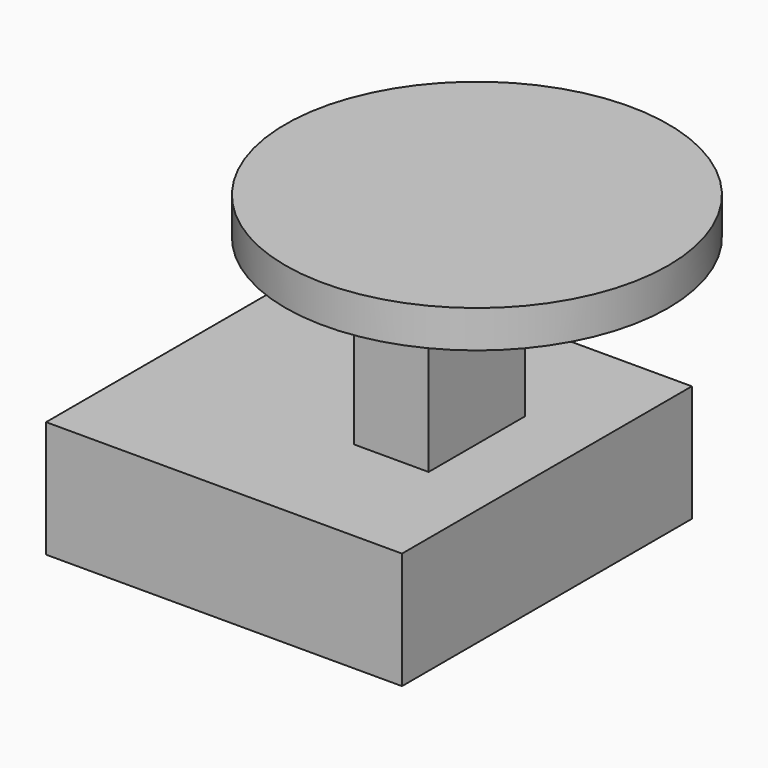
from build123d import *

# Parameters (mm, degrees)
F1_DEPTH = 38.1
F2_DEPTH = 12.7


with BuildPart() as f1:
    # F0 (on Front) → F1 (new body, symmetric)
    with BuildSketch(Plane.XZ):
        Polygon((6.994743, 12.271473), (-37.427992, 12.271473), (-37.427992, -12.271473), (37.427992, -12.271473), (37.427992, 12.271473), (22.702223, 12.271473), align=None)
    extrude(amount=F1_DEPTH, both=True)

    # F0 (on Front) → F2 (join, symmetric)
    with BuildSketch(Plane.XZ):
        Polygon((6.994743, 54.485336), (6.994743, 12.271473), (22.702223, 12.271473), (22.702223, 50.558463), (22.702223, 54.485336), align=None)
    extrude(amount=F2_DEPTH, both=True)


with BuildPart() as f3:
    # F0 (on Front) → F3 (revolve)
    with BuildSketch(Plane.XZ):
        Polygon((22.702223, 54.485336), (22.702223, 50.558463), (62.952654, 50.558463), (62.952654, 58.412209), (22.702223, 58.412209), align=None)
    revolve(axis=Axis((22.702223, 0, 33.378405), (0, 0, -1)))


solid = Compound([f1.part, f3.part])
